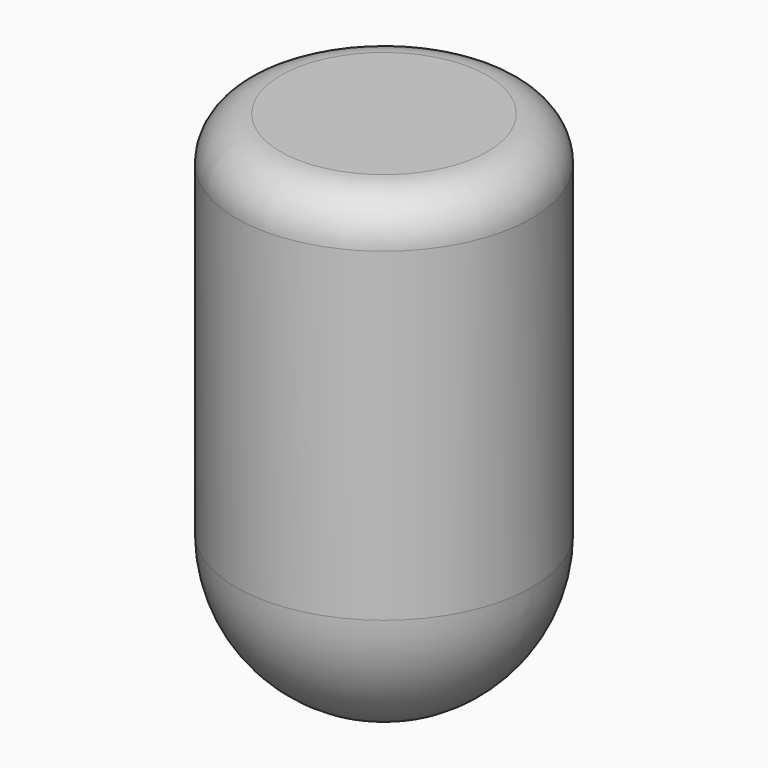
from build123d import *

# Parameters (mm, degrees)
CYLINDER_R     = 100
CYLINDER_DEPTH = 350
FILLET007_1_R  = 100
FILLET007_2_R  = 30


with BuildPart() as part:
    # Cylinder → Cylinder (new body)
    with BuildSketch(Plane(origin=(-350, 0, 1730), x_dir=(1, 0, 0), z_dir=(0, 0, 1))):
        Circle(CYLINDER_R)
    extrude(amount=CYLINDER_DEPTH)

    # Fillet007 1
    fillet007_1_edges = [part.edges().sort_by_distance(p)[0] for p in [
        (-450, 0, 1730),
    ]]
    fillet(fillet007_1_edges, radius=FILLET007_1_R)

    # Fillet007 2
    fillet007_2_edges = [part.edges().sort_by_distance(p)[0] for p in [
        (-450, 0, 2080),
    ]]
    fillet(fillet007_2_edges, radius=FILLET007_2_R)


solid = part.part
